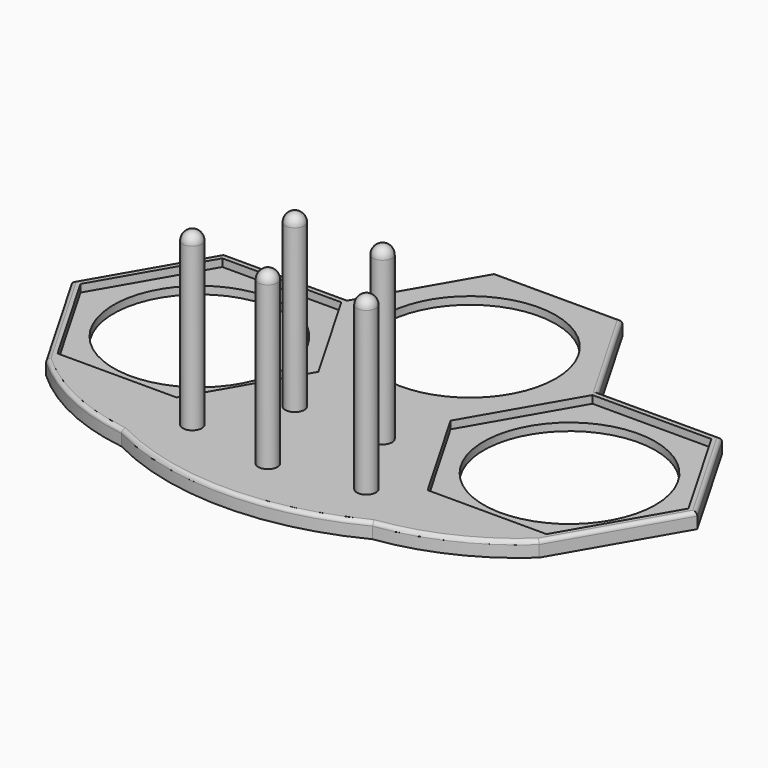
from build123d import *

# Parameters (mm, degrees)
F0_R     = 2.5
F0_R_2   = 22.5
F1_DEPTH = 2
F2_DEPTH = 4
F3_DEPTH = 49
F4_START = 2
F4_DEPTH = 2
F5_R     = 2.5
F6_R     = 1


with BuildPart() as f1:
    # F0 (on Top) → F1 (new body)
    with BuildSketch(Plane.XY):
        with BuildLine():
            ThreePointArc((-64.6104820835, -2.0913623334), (-49.905732642, -11.9825383792), (-32.9089653438, -17))
            ThreePointArc((-32.9089653438, -17), (0, -24.9371242498), (32.9089653438, -17))
            ThreePointArc((32.9089653438, -17), (49.905732642, -11.9825383792), (64.6104820835, -2.0913623334))
            Line((64.6104820835, -2.0913623334), (81.9837382259, 27.9999999982))
            Line((81.9837382291, 27.9999999928), (65.2405804184, 57))
            Line((65.2405804184, 57), (32.9089653438, 57))
            Line((32.9089653438, 57), (16.7431578065, 85))
            Line((16.7431578065, 85), (-16.7431578065, 85))
            Line((-16.7431578065, 85), (-32.9089653438, 57))
            Line((-32.9089653438, 57), (-65.2405804184, 57))
            Line((-65.2405804184, 57), (-81.9837382259, 27.9999999982))
            Line((-81.9837382259, 27.9999999982), (-64.6104820835, -2.0913623334))
        make_face()
        with Locations((-22.8121797535, -6.4300971625)):
            Circle(F0_R, mode=Mode.SUBTRACT)
        Polygon((-79.6743371482, 28), (-64.08587988, 55), (-32.9089653438, 55), (-17.3205080757, 28), (-32.9089653438, 1), (-64.08587988, 1), align=None, mode=Mode.SUBTRACT)
        with Locations((-11.5, 13)):
            Circle(F0_R, mode=Mode.SUBTRACT)
        with Locations((0, -10.200026891)):
            Circle(F0_R, mode=Mode.SUBTRACT)
        with Locations((22.8121797535, -6.4300971625)):
            Circle(F0_R, mode=Mode.SUBTRACT)
        with Locations((11.5, 13)):
            Circle(F0_R, mode=Mode.SUBTRACT)
        Polygon((64.08587988, 1), (32.9089653438, 1), (17.3205080757, 28), (32.9089653438, 55), (64.08587988, 55), (79.6743371482, 28), align=None, mode=Mode.SUBTRACT)
        Polygon((-31.1769145362, 56), (-15.5884572681, 83), (15.5884572681, 83), (31.1769145362, 56), (15.5884572681, 29), (-15.5884572681, 29), align=None, mode=Mode.SUBTRACT)
        Polygon((-32.9089653438, 55), (-64.08587988, 55), (-79.6743371482, 28), (-64.08587988, 1), (-32.9089653438, 1), (-17.3205080757, 28), align=None)
        with Locations((-48.4974226119, 28)):
            Circle(F0_R_2, mode=Mode.SUBTRACT)
        Polygon((17.3205080757, 28), (32.9089653438, 1), (64.08587988, 1), (79.6743371482, 28), (64.08587988, 55), (32.9089653438, 55), align=None)
        with Locations((48.4974226119, 28)):
            Circle(F0_R_2, mode=Mode.SUBTRACT)
    extrude(amount=F1_DEPTH)

    # F0 (on Top) → F2 (join)
    with BuildSketch(Plane.XY):
        with BuildLine():
            ThreePointArc((-64.6104820835, -2.0913623334), (-49.905732642, -11.9825383792), (-32.9089653438, -17))
            ThreePointArc((-32.9089653438, -17), (0, -24.9371242498), (32.9089653438, -17))
            ThreePointArc((32.9089653438, -17), (49.905732642, -11.9825383792), (64.6104820835, -2.0913623334))
            Line((64.6104820835, -2.0913623334), (81.9837382259, 27.9999999982))
            Line((81.9837382291, 27.9999999928), (65.2405804184, 57))
            Line((65.2405804184, 57), (32.9089653438, 57))
            Line((32.9089653438, 57), (16.7431578065, 85))
            Line((16.7431578065, 85), (-16.7431578065, 85))
            Line((-16.7431578065, 85), (-32.9089653438, 57))
            Line((-32.9089653438, 57), (-65.2405804184, 57))
            Line((-65.2405804184, 57), (-81.9837382259, 27.9999999982))
            Line((-81.9837382259, 27.9999999982), (-64.6104820835, -2.0913623334))
        make_face()
        with Locations((-22.8121797535, -6.4300971625)):
            Circle(F0_R, mode=Mode.SUBTRACT)
        Polygon((-79.6743371482, 28), (-64.08587988, 55), (-32.9089653438, 55), (-17.3205080757, 28), (-32.9089653438, 1), (-64.08587988, 1), align=None, mode=Mode.SUBTRACT)
        with Locations((-11.5, 13)):
            Circle(F0_R, mode=Mode.SUBTRACT)
        with Locations((0, -10.200026891)):
            Circle(F0_R, mode=Mode.SUBTRACT)
        with Locations((22.8121797535, -6.4300971625)):
            Circle(F0_R, mode=Mode.SUBTRACT)
        with Locations((11.5, 13)):
            Circle(F0_R, mode=Mode.SUBTRACT)
        Polygon((64.08587988, 1), (32.9089653438, 1), (17.3205080757, 28), (32.9089653438, 55), (64.08587988, 55), (79.6743371482, 28), align=None, mode=Mode.SUBTRACT)
        Polygon((-31.1769145362, 56), (-15.5884572681, 83), (15.5884572681, 83), (31.1769145362, 56), (15.5884572681, 29), (-15.5884572681, 29), align=None, mode=Mode.SUBTRACT)
    extrude(amount=F2_DEPTH)

    # F0 (on Top) → F3 (join)
    with BuildSketch(Plane.XY):
        with Locations((-11.5, 13)):
            Circle(F0_R)
        with Locations((11.5, 13)):
            Circle(F0_R)
        with Locations((-22.8121797535, -6.4300971625)):
            Circle(F0_R)
        with Locations((0, -10.200026891)):
            Circle(F0_R)
        with Locations((22.8121797535, -6.4300971625)):
            Circle(F0_R)
    extrude(amount=F3_DEPTH)

    # F0 (on Top) → F4 (join)
    with BuildSketch(Plane.XY.offset(F4_START)):
        Polygon((15.5884572681, 83), (-15.5884572681, 83), (-31.1769145362, 56), (-15.5884572681, 29), (15.5884572681, 29), (31.1769145362, 56), align=None)
        with Locations((0, 56)):
            Circle(F0_R_2, mode=Mode.SUBTRACT)
    extrude(amount=F4_DEPTH)

    # F5
    f5_edges = [f1.edges().sort_by_distance(p)[0] for p in [
        (-25.31218, -6.430097, 49),
        (-14, 13, 49),
        (9, 13, 49),
        (20.31218, -6.430097, 49),
        (-2.5, -10.200027, 49),
    ]]
    fillet(f5_edges, radius=F5_R)

    # F6
    f6_edges = [f1.edges().sort_by_distance(p)[0] for p in [
        (-73.29711, 12.954319, 4),
        (-49.905733, -11.982538, 4),
        (0, -24.937124, 4),
        (49.905733, -11.982538, 4),
        (73.29711, 12.954319, 4),
        (73.612159, 42.5, 4),
        (49.074773, 57, 4),
        (24.826062, 71, 4),
        (0, 85, 4),
        (-24.826062, 71, 4),
        (-49.074773, 57, 4),
        (-73.612159, 42.5, 4),
    ]]
    fillet(f6_edges, radius=F6_R)


solid = f1.part
